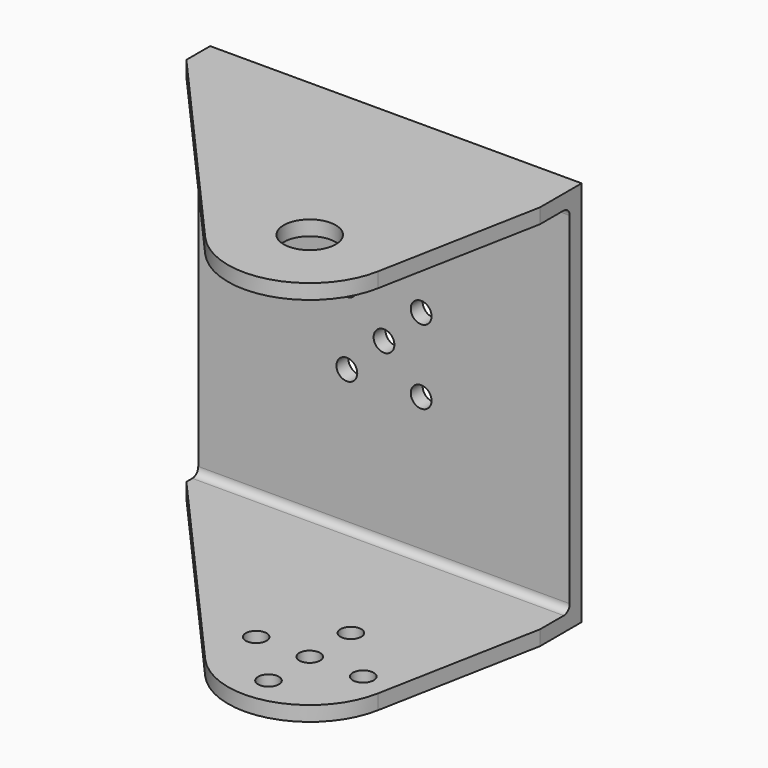
from build123d import *

# Parameters (mm, degrees)
SKETCH_W     = 50
SKETCH_H     = 48
SKETCH_R     = 1.4
PAD_DEPTH    = 2
SKETCH003_R  = 1.4
PAD001_DEPTH = 2
SKETCH004_R  = 3.5
PAD002_DEPTH = 2
FILLET_R     = 1
FILLET001_R  = 1


with BuildPart() as body:
    # Sketch → Pad (new body)
    with BuildSketch(Plane.XZ):
        Rectangle(SKETCH_W, SKETCH_H)
        with Locations((-5, 5)):
            Circle(SKETCH_R, mode=Mode.SUBTRACT)
        with Locations((5, 5)):
            Circle(SKETCH_R, mode=Mode.SUBTRACT)
        with Locations((-5, -5)):
            Circle(SKETCH_R, mode=Mode.SUBTRACT)
        with Locations((5, -5)):
            Circle(SKETCH_R, mode=Mode.SUBTRACT)
        Circle(SKETCH_R, mode=Mode.SUBTRACT)
    extrude(amount=PAD_DEPTH)

    # Sketch003 (on Face3 of Pad) → Pad001 (join)
    with BuildSketch(Plane(origin=(0, 0, -24), x_dir=(1, 0, 0), z_dir=(0, 0, -1))):
        with BuildLine():
            Line((-25, 0), (-25, 2))
            Line((-25, 2), (25, 2))
            Line((25, 2), (25, 0))
            Line((25, 0), (25, -5))
            Line((25, -5), (20.80638, -27.054785))
            ThreePointArc((1.756653, -32.283353), (12.911489, -35.607697), (20.80638, -27.054785))
            Line((-25, -2), (1.756653, -32.283353))
            Line((-25, 0), (-25, -2))
        make_face()
        with Locations((10, -31.934549)):
            Circle(SKETCH003_R, mode=Mode.SUBTRACT)
        with Locations((17.205, -25)):
            Circle(SKETCH003_R, mode=Mode.SUBTRACT)
        with Locations((10, -25)):
            Circle(SKETCH003_R, mode=Mode.SUBTRACT)
        with Locations((2.795, -25)):
            Circle(SKETCH003_R, mode=Mode.SUBTRACT)
        with Locations((10, -18.065451)):
            Circle(SKETCH003_R, mode=Mode.SUBTRACT)
    extrude(amount=PAD001_DEPTH)

    # Sketch004 (on Face1 of Pad) → Pad002 (join)
    with BuildSketch(Plane(origin=(0, 0, 24), x_dir=(-1, 0, 0), z_dir=(0, 0, 1))):
        with BuildLine():
            Line((-25, 2), (25, 2))
            Line((25, 2), (25, 0))
            Line((25, 0), (25, -2))
            Line((25, -2), (-1.756653, -32.283353))
            ThreePointArc((-20.80638, -27.054785), (-12.911489, -35.607697), (-1.756653, -32.283353))
            Line((-25, -5), (-20.80638, -27.054785))
            Line((-25, 0), (-25, -5))
            Line((-25, 0), (-25, 2))
        make_face()
        with Locations((-10, -25)):
            Circle(SKETCH004_R, mode=Mode.SUBTRACT)
    extrude(amount=PAD002_DEPTH)

    # Fillet
    fillet_edges = [body.edges().sort_by_distance(p)[0] for p in [
        (0, 0, 24),
    ]]
    fillet(fillet_edges, radius=FILLET_R)

    # Fillet001
    fillet001_edges = [body.edges().sort_by_distance(p)[0] for p in [
        (0, 0, -24),
    ]]
    fillet(fillet001_edges, radius=FILLET001_R)


with BuildPart() as part_mirroring:
    # Part__Mirroring: instance of Body
    add(body.part.mirror(Plane(origin=(0, 0, 0), x_dir=(1, 0, 0), z_dir=(0, 1, 0))))


solid = part_mirroring.part
